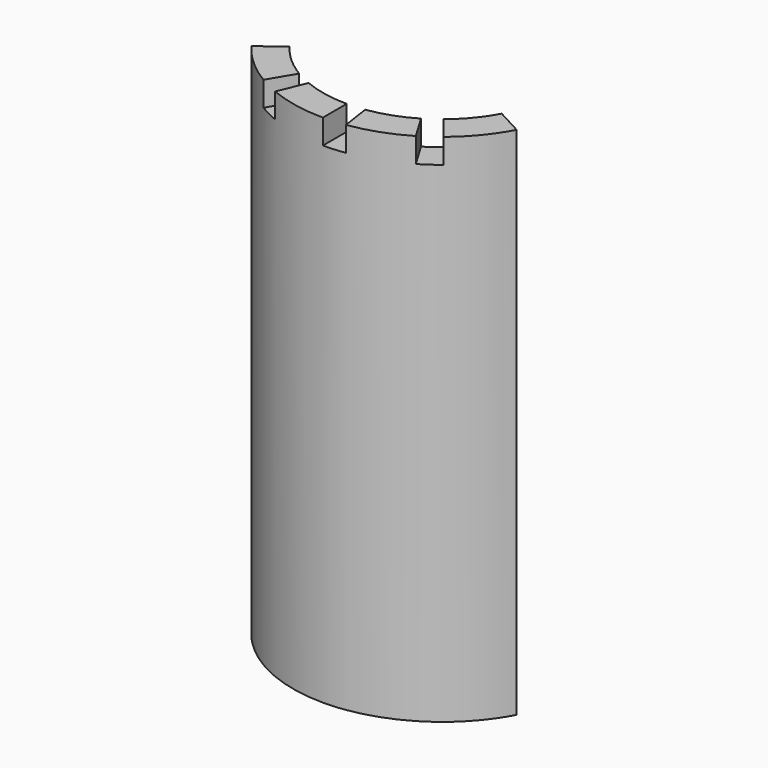
from build123d import *

# Parameters (mm, degrees)
F1_DEPTH      = 36.0172
F1_DEPTH_BACK = 39.8272
F2_DEPTH      = 39.8272


with BuildPart() as f1:
    # F0 (on Top) → F1 (new body, two sides)
    with BuildSketch(Plane.XY) as f1_sk:
        with BuildLine():
            ThreePointArc((-18.42008, -13.81506), (-17.8541168406, -14.5391107655), (-17.2597111798, -15.24))
            Line((-17.2597111798, -15.24), (-14.990774043, -15.24))
            Line((-14.990774043, -15.24), (-12.9135828703, -13.1282749229))
            ThreePointArc((-12.9135828703, -13.1282749229), (-13.8618328193, -12.1227808645), (-14.732, -11.049))
            Line((-14.732, -11.049), (-18.42008, -13.81506))
        make_face()
        with BuildLine():
            Line((-14.990774043, -15.24), (-17.2597111798, -15.24))
            ThreePointArc((-17.2597111798, -15.24), (-16.7133980159, -15.8372206139), (-16.1464315475, -16.414870645))
            Line((-16.1464315475, -16.414870645), (-14.990774043, -15.24))
        make_face()
        with BuildLine():
            Line((-12.9135828703, -13.1282749229), (-14.990774043, -15.24))
            Line((-14.990774043, -15.24), (-10.3370510785, -15.24))
            ThreePointArc((-10.3370510785, -15.24), (-11.6731675417, -14.2425203017), (-12.9135828703, -13.1282749229))
        make_face()
        with BuildLine():
            Line((-14.990774043, -15.24), (-16.1464315475, -16.414870645))
            ThreePointArc((-16.1464315475, -16.414870645), (-14.0647479304, -18.2301425026), (-11.7806809516, -19.7830934468))
            Line((-11.7806809516, -19.7830934468), (-9.4219456039, -15.8221100375))
            ThreePointArc((-9.4219456039, -15.8221100375), (-9.8837847254, -15.5377934245), (-10.3370510785, -15.24))
            Line((-10.3370510785, -15.24), (-14.990774043, -15.24))
        make_face()
        with BuildLine():
            Line((10.3370510785, -15.24), (12.4251553358, -15.24))
            Line((12.4251553358, -15.24), (11.6364092782, -14.2725682381))
            ThreePointArc((11.6364092782, -14.2725682381), (10.9973733712, -14.770578998), (10.3370510785, -15.24))
        make_face()
        with BuildLine():
            ThreePointArc((18.42008, -13.81506), (19.4043299655, -12.3946443515), (20.2792766507, -10.9044105083))
            Line((20.2792766507, -10.9044105083), (16.2189471283, -8.7211225797))
            ThreePointArc((16.2189471283, -8.7211225797), (15.5191828185, -9.9129808658), (14.732, -11.049))
            Line((14.732, -11.049), (18.42008, -13.81506))
        make_face()
        with BuildLine():
            Line((12.4251553358, -15.24), (17.2597111798, -15.24))
            ThreePointArc((17.2597111798, -15.24), (17.8541168406, -14.5391107655), (18.42008, -13.81506))
            Line((18.42008, -13.81506), (14.732, -11.049))
            ThreePointArc((14.732, -11.049), (13.2823604834, -12.7550431198), (11.6364092782, -14.2725682381))
            Line((11.6364092782, -14.2725682381), (12.4251553358, -15.24))
        make_face()
        with BuildLine():
            ThreePointArc((14.5495241526, -17.8456318729), (15.9578880956, -16.5982239272), (17.2597111798, -15.24))
            Line((17.2597111798, -15.24), (12.4251553358, -15.24))
            Line((12.4251553358, -15.24), (14.5495241526, -17.8456318729))
        make_face()
        with BuildLine():
            ThreePointArc((11.7806809516, -19.7830934468), (13.2006956084, -18.8652290064), (14.5495241526, -17.8456318729))
            Line((14.5495241526, -17.8456318729), (12.4251553358, -15.24))
            Line((12.4251553358, -15.24), (10.3370510785, -15.24))
            ThreePointArc((10.3370510785, -15.24), (9.8837847254, -15.5377934245), (9.4219456039, -15.8221100375))
            Line((9.4219456039, -15.8221100375), (11.7806809516, -19.7830934468))
        make_face()
        with BuildLine():
            ThreePointArc((3.3702741984, -22.7771043339), (7.7219742156, -21.6916192163), (11.7806809516, -19.7830934468))
            Line((11.7806809516, -19.7830934468), (9.4219456039, -15.8221100375))
            ThreePointArc((9.4219456039, -15.8221100375), (6.1758756827, -17.3485095773), (2.6954757792, -18.2166581821))
            Line((2.6954757792, -18.2166581821), (3.3702741984, -22.7771043339))
        make_face()
        with BuildLine():
            Line((-9.4219456039, -15.8221100375), (-11.7806809516, -19.7830934468))
            ThreePointArc((-11.7806809516, -19.7830934468), (-10.2971377577, -20.5942755155), (-8.7580661865, -21.2944008294))
            Line((-8.7580661865, -21.2944008294), (-7.0045206677, -17.0308225056))
            ThreePointArc((-7.0045206677, -17.0308225056), (-8.2354383611, -16.4708767223), (-9.4219456039, -15.8221100375))
        make_face()
        with BuildLine():
            Line((-7.0045206677, -17.0308225056), (-8.7580661865, -21.2944008294))
            ThreePointArc((-8.7580661865, -21.2944008294), (-4.4637160233, -22.5882816804), (0, -23.0251))
            Line((0, -23.0251), (0, -18.415))
            ThreePointArc((0, -18.415), (-3.5699879944, -18.065641719), (-7.0045206677, -17.0308225056))
        make_face()
        with BuildLine():
            ThreePointArc((0, -23.0251), (1.6896930211, -22.9630173868), (3.3702741984, -22.7771043339))
            Line((3.3702741984, -22.7771043339), (2.6954757792, -18.2166581821))
            ThreePointArc((2.6954757792, -18.2166581821), (1.351381622, -18.3653476066), (0, -18.415))
            Line((0, -18.415), (0, -23.0251))
        make_face()
    extrude(amount=F1_DEPTH)
    extrude(f1_sk.sketch, amount=-F1_DEPTH_BACK)

    # F0 (on Top) → F2 (join)
    with BuildSketch(Plane.XY):
        with BuildLine():
            ThreePointArc((-18.42008, -13.81506), (-17.8541168406, -14.5391107655), (-17.2597111798, -15.24))
            Line((-17.2597111798, -15.24), (-14.990774043, -15.24))
            Line((-14.990774043, -15.24), (-12.9135828703, -13.1282749229))
            ThreePointArc((-12.9135828703, -13.1282749229), (-13.8618328193, -12.1227808645), (-14.732, -11.049))
            Line((-14.732, -11.049), (-18.42008, -13.81506))
        make_face()
        with BuildLine():
            Line((-14.990774043, -15.24), (-17.2597111798, -15.24))
            ThreePointArc((-17.2597111798, -15.24), (-16.7133980159, -15.8372206139), (-16.1464315475, -16.414870645))
            Line((-16.1464315475, -16.414870645), (-14.990774043, -15.24))
        make_face()
        with BuildLine():
            Line((-12.9135828703, -13.1282749229), (-14.990774043, -15.24))
            Line((-14.990774043, -15.24), (-10.3370510785, -15.24))
            ThreePointArc((-10.3370510785, -15.24), (-11.6731675417, -14.2425203017), (-12.9135828703, -13.1282749229))
        make_face()
        with BuildLine():
            Line((-14.990774043, -15.24), (-16.1464315475, -16.414870645))
            ThreePointArc((-16.1464315475, -16.414870645), (-14.0647479304, -18.2301425026), (-11.7806809516, -19.7830934468))
            Line((-11.7806809516, -19.7830934468), (-9.4219456039, -15.8221100375))
            ThreePointArc((-9.4219456039, -15.8221100375), (-9.8837847254, -15.5377934245), (-10.3370510785, -15.24))
            Line((-10.3370510785, -15.24), (-14.990774043, -15.24))
        make_face()
        with BuildLine():
            Line((-7.0045206677, -17.0308225056), (-8.7580661865, -21.2944008294))
            ThreePointArc((-8.7580661865, -21.2944008294), (-4.4637160233, -22.5882816804), (0, -23.0251))
            Line((0, -23.0251), (0, -18.415))
            ThreePointArc((0, -18.415), (-3.5699879944, -18.065641719), (-7.0045206677, -17.0308225056))
        make_face()
        with BuildLine():
            ThreePointArc((3.3702741984, -22.7771043339), (7.7219742156, -21.6916192163), (11.7806809516, -19.7830934468))
            Line((11.7806809516, -19.7830934468), (9.4219456039, -15.8221100375))
            ThreePointArc((9.4219456039, -15.8221100375), (6.1758756827, -17.3485095773), (2.6954757792, -18.2166581821))
            Line((2.6954757792, -18.2166581821), (3.3702741984, -22.7771043339))
        make_face()
        with BuildLine():
            ThreePointArc((14.5495241526, -17.8456318729), (15.9578880956, -16.5982239272), (17.2597111798, -15.24))
            Line((17.2597111798, -15.24), (12.4251553358, -15.24))
            Line((12.4251553358, -15.24), (14.5495241526, -17.8456318729))
        make_face()
        with BuildLine():
            Line((12.4251553358, -15.24), (17.2597111798, -15.24))
            ThreePointArc((17.2597111798, -15.24), (17.8541168406, -14.5391107655), (18.42008, -13.81506))
            Line((18.42008, -13.81506), (14.732, -11.049))
            ThreePointArc((14.732, -11.049), (13.2823604834, -12.7550431198), (11.6364092782, -14.2725682381))
            Line((11.6364092782, -14.2725682381), (12.4251553358, -15.24))
        make_face()
        with BuildLine():
            ThreePointArc((18.42008, -13.81506), (19.4043299655, -12.3946443515), (20.2792766507, -10.9044105083))
            Line((20.2792766507, -10.9044105083), (16.2189471283, -8.7211225797))
            ThreePointArc((16.2189471283, -8.7211225797), (15.5191828185, -9.9129808658), (14.732, -11.049))
            Line((14.732, -11.049), (18.42008, -13.81506))
        make_face()
    extrude(amount=F2_DEPTH)


solid = f1.part
